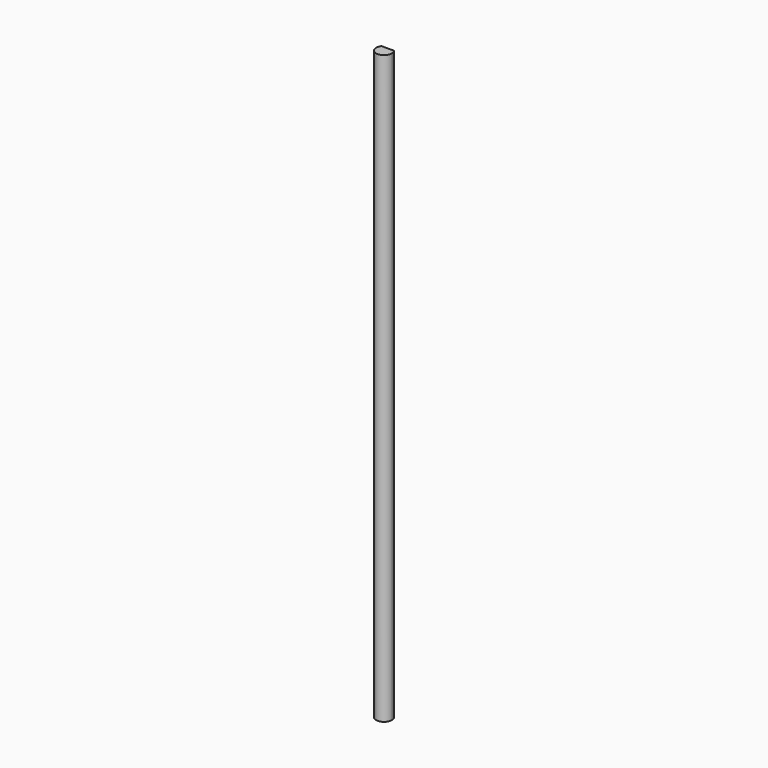
from build123d import *

# Parameters (mm, degrees)
F1_DEPTH = 150


with BuildPart() as f1:
    # F0 (on Top) → F1 (new body)
    with BuildSketch(Plane.XY):
        with BuildLine():
            ThreePointArc((-1.6, 1.2), (-0.632456, -1.897367), (2, 0))
            ThreePointArc((2, 0), (1.897367, 0.632456), (1.6, 1.2))
            Line((1.6, 1.2), (-1.6, 1.2))
        make_face()
    extrude(amount=F1_DEPTH)


solid = f1.part
